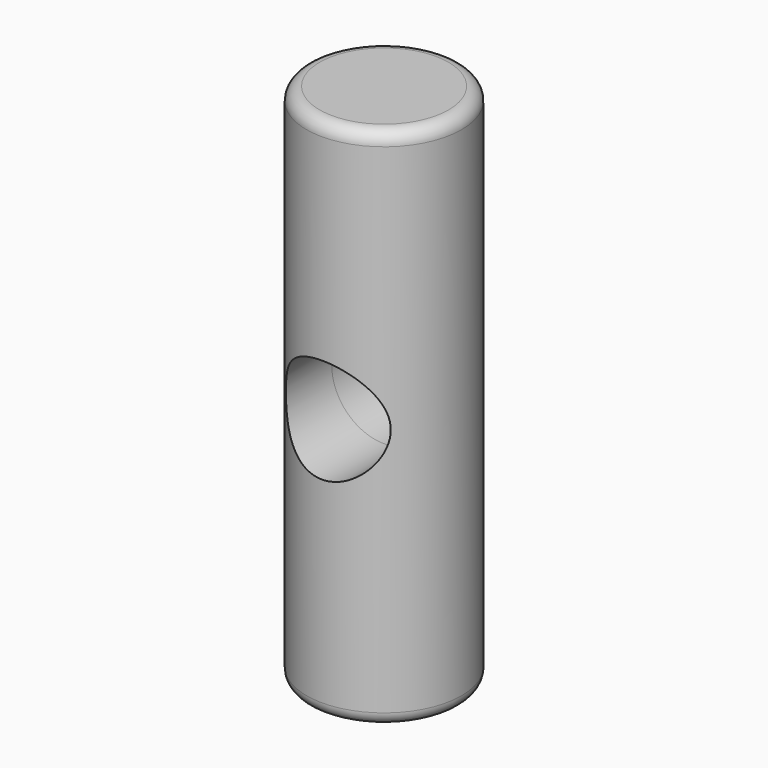
from build123d import *

# Parameters (mm, degrees)
F0_R          = 4.699
F1_DEPTH      = 31.7754
F2_R          = 3.175
F3_DEPTH      = 14.986
F3_DEPTH_BACK = 25.4
F4_R          = 0.79375


with BuildPart() as f1:
    # F0 (on Top) → F1 (new body)
    with BuildSketch(Plane.XY):
        Circle(F0_R)
    extrude(amount=F1_DEPTH)

    # F2 (on Front) → F3 (cut, two sides)
    with BuildSketch(Plane.XZ) as f3_sk:
        with Locations((0, 15.875)):
            Circle(F2_R)
    extrude(amount=-F3_DEPTH, mode=Mode.SUBTRACT)
    extrude(f3_sk.sketch, amount=F3_DEPTH_BACK, mode=Mode.SUBTRACT)

    # F4
    f4_edges = [f1.edges().sort_by_distance(p)[0] for p in [
        (-4.699, 0, 31.7754),
        (-4.699, 0, 0),
    ]]
    fillet(f4_edges, radius=F4_R)


solid = f1.part
